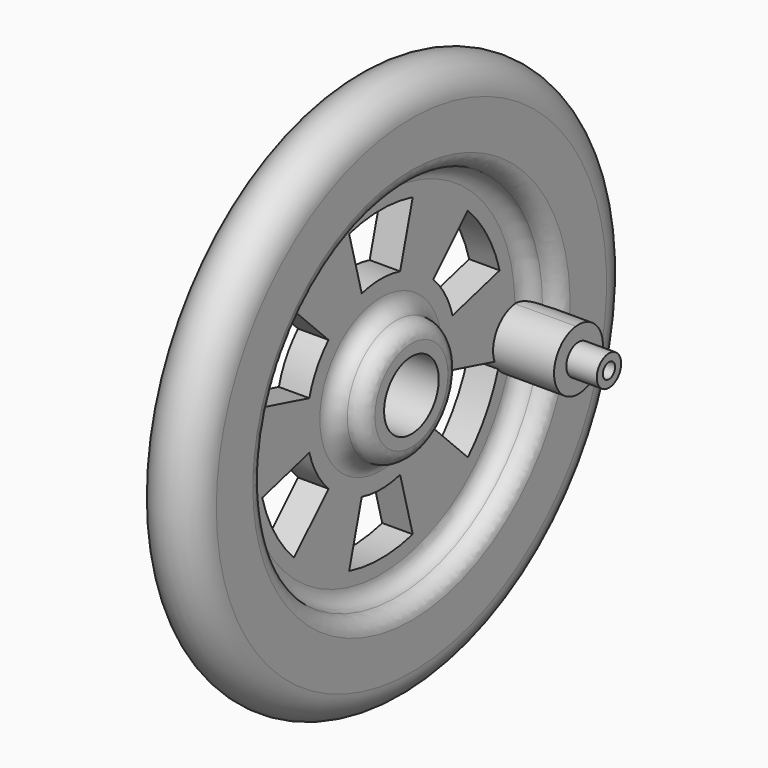
from build123d import *

# Parameters (mm, degrees)
F2_R      = 1.6002
F4_DEPTH  = 6.35
F5_R      = 1.5875
F6_DEPTH  = 3.175
F7_R      = 0.79375
F8_DEPTH  = 6.35
F10_DEPTH = 25.4


with BuildPart() as f1:
    # F0 (on Top) → F1 (revolve)
    with BuildSketch(Plane.XY):
        with BuildLine():
            Line((-3.175, 9.8927636251), (-3.175, -11.9512363749))
            ThreePointArc((-3.175, -11.9512363749), (0, -15.1262363749), (3.175, -11.9512363749))
            Line((3.175, -11.9512363749), (3.175, -5.6012363749))
            Line((3.175, -5.6012363749), (1.6002, -5.6012363749))
            ThreePointArc((1.6002, -5.6012363749), (0.4686877287, -5.1325486462), (0, -4.0010363749))
            Line((0, -4.0010363749), (0, 5.4985636251))
            ThreePointArc((0, 5.4985636251), (0.4686877287, 6.6300758963), (1.6002, 7.0987636251))
            Line((1.6002, 7.0987636251), (3.175, 7.0987636251))
            Line((3.175, 7.0987636251), (3.175, 9.8927636251))
            Line((3.175, 9.8927636251), (-3.175, 9.8927636251))
        make_face()
    revolve(axis=Axis((0.8001, 13.4487636251, 0), (1, 0, 0)))

    # F2
    f2_edges = [f1.edges().sort_by_distance(p)[0] for p in [
        (3.175, 38.848764, 0),
        (3.175, 32.498764, 0),
        (3.175, 19.798764, 0),
    ]]
    fillet(f2_edges, radius=F2_R)

    # F3 (on face) → F4 (join)
    with BuildSketch(Plane.YZ):
        with BuildLine():
            ThreePointArc((30.8985636251, 0), (30.8980316896, 0.1362499594), (30.8964359157, 0.272491612))
            ThreePointArc((30.8964359157, 0.272491612), (28.0889100487, -2.3806262812), (29.9111717059, -5.7865914164))
            ThreePointArc((29.9111717059, -5.7865914164), (30.6499445231, -2.9351142662), (30.8985636251, 0))
        make_face()
        with BuildLine():
            ThreePointArc((29.9111717059, -5.7865914164), (32.9503875259, -5.566149112), (34.4098581055, -2.8911961708))
            ThreePointArc((34.4098581055, -2.8911961708), (33.3574012471, -0.5272452476), (30.8964359157, 0.272491612))
            ThreePointArc((30.8964359157, 0.272491612), (30.8980316896, 0.1362499594), (30.8985636251, 0))
            ThreePointArc((30.8985636251, 0), (30.6499445231, -2.9351142662), (29.9111717059, -5.7865914164))
        make_face()
    extrude(amount=F4_DEPTH)

    # F5 (on face) → F6 (join)
    with BuildSketch(Plane.YZ.offset(6.35)):
        with Locations((31.2287636251, -2.8911961708)):
            Circle(F5_R)
    extrude(amount=F6_DEPTH)

    # F7 (on face) → F8 (cut)
    with BuildSketch(Plane.YZ.offset(9.525)):
        with Locations((31.2287636251, -2.8911961708)):
            Circle(F7_R)
    extrude(amount=-F8_DEPTH, mode=Mode.SUBTRACT)

    # F9 (on face) → F10 (cut)
    with BuildSketch(Plane.YZ):
        with BuildLine():
            ThreePointArc((10.9506422018, 9.3231160753), (13.4487636251, 9.652), (15.9468850484, 9.3231160753))
            Line((15.9468850484, 9.3231160753), (17.5903859848, 15.4567450723))
            ThreePointArc((17.5903859848, 15.4567450723), (13.4487636251, 16.002), (9.3071412654, 15.4567450723))
            Line((9.3071412654, 15.4567450723), (10.9506422018, 9.3231160753))
        make_face()
        with BuildLine():
            Line((6.6237689731, 6.824994652), (2.1336409125, 11.3151227125))
            ThreePointArc((2.1336409125, 11.3151227125), (-0.4093748863, 8.001), (-2.0079814472, 4.1416223597))
            Line((-2.0079814472, 4.1416223597), (4.1256475498, 2.4981214233))
            ThreePointArc((4.1256475498, 2.4981214233), (5.0898864278, 4.826), (6.6237689731, 6.824994652))
        make_face()
        with BuildLine():
            Line((4.1256475498, -2.4981214233), (-2.0079814472, -4.1416223597))
            ThreePointArc((-2.0079814472, -4.1416223597), (-0.4093748863, -8.001), (2.1336409125, -11.3151227125))
            Line((2.1336409125, -11.3151227125), (6.6237689731, -6.824994652))
            ThreePointArc((6.6237689731, -6.824994652), (5.0898864278, -4.826), (4.1256475498, -2.4981214233))
        make_face()
        with BuildLine():
            Line((10.9506422018, -9.3231160753), (9.3071412654, -15.4567450723))
            ThreePointArc((9.3071412654, -15.4567450723), (13.4487636251, -16.002), (17.5903859848, -15.4567450723))
            Line((17.5903859848, -15.4567450723), (15.9468850484, -9.3231160753))
            ThreePointArc((15.9468850484, -9.3231160753), (13.4487636251, -9.652), (10.9506422018, -9.3231160753))
        make_face()
        with BuildLine():
            Line((20.2737582771, -6.824994652), (24.7638863376, -11.3151227125))
            ThreePointArc((24.7638863376, -11.3151227125), (27.124727829, -8.3085502403), (28.7051099293, -4.8278257474))
            ThreePointArc((28.7051099293, -4.8278257474), (28.435320817, -4.4130500965), (28.2331154758, -3.961455139))
            Line((28.2331154758, -3.961455139), (22.7718797004, -2.4981214233))
            ThreePointArc((22.7718797004, -2.4981214233), (21.8076408224, -4.826), (20.2737582771, -6.824994652))
        make_face()
        with BuildLine():
            Line((22.7718797004, 2.4981214233), (28.9055086974, 4.1416223597))
            ThreePointArc((28.9055086974, 4.1416223597), (27.3069021365, 8.001), (24.7638863376, 11.3151227125))
            Line((24.7638863376, 11.3151227125), (20.2737582771, 6.824994652))
            ThreePointArc((20.2737582771, 6.824994652), (21.8076408224, 4.826), (22.7718797004, 2.4981214233))
        make_face()
    extrude(amount=-F10_DEPTH, mode=Mode.SUBTRACT)


solid = f1.part
